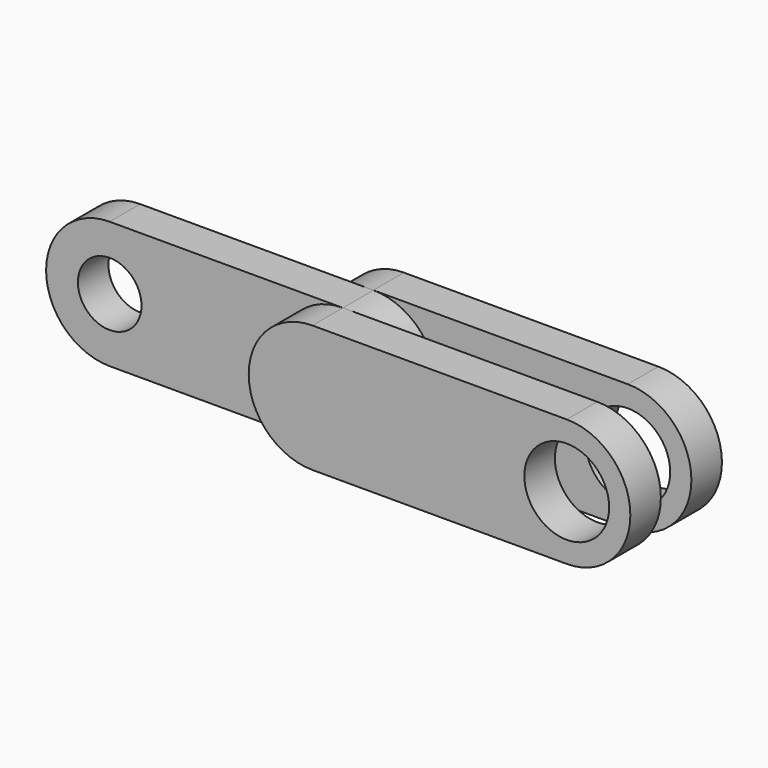
from build123d import *

# Parameters (mm, degrees)
F0_R          = 3
F1_DEPTH      = 3.6
F3_DEPTH      = 3.6
F5_DEPTH      = 3.6
F6_R          = 4
F7_DEPTH      = 7.201
F7_DEPTH_BACK = 3.601


with BuildPart() as f1:
    # F0 (on Front) → F1 (new body)
    with BuildSketch(Plane.XZ):
        with BuildLine():
            Line((22, 12), (0, 12))
            ThreePointArc((0, 12), (-6, 6), (0, 0))
            Line((0, 0), (22, 0))
            ThreePointArc((22, 0), (28, 6), (22, 12))
        make_face()
        with Locations((0, 6)):
            Circle(F0_R, mode=Mode.SUBTRACT)
    extrude(amount=F1_DEPTH)

    # F2 (on Front) → F3 (join)
    with BuildSketch(Plane.XZ):
        with BuildLine():
            Line((46, 12), (22, 12))
            ThreePointArc((22, 12), (16, 6), (22, 0))
            Line((22, 0), (46, 0))
            ThreePointArc((46, 0), (52, 6), (46, 12))
        make_face()
    extrude(amount=-F3_DEPTH)

    # F4 (on face) → F5 (join)
    with BuildSketch(Plane.XZ.offset(3.6)):
        with BuildLine():
            Line((46, 12), (22, 12))
            ThreePointArc((22, 12), (16, 6), (22, 0))
            Line((22, 0), (46, 0))
            ThreePointArc((46, 0), (52, 6), (46, 12))
        make_face()
    extrude(amount=F5_DEPTH)

    # F6 (on face) → F7 (cut, two sides)
    with BuildSketch(Plane.XZ) as f7_sk:
        with Locations((46, 6)):
            Circle(F6_R)
    extrude(amount=F7_DEPTH, mode=Mode.SUBTRACT)
    extrude(f7_sk.sketch, amount=-F7_DEPTH_BACK, mode=Mode.SUBTRACT)


solid = f1.part
